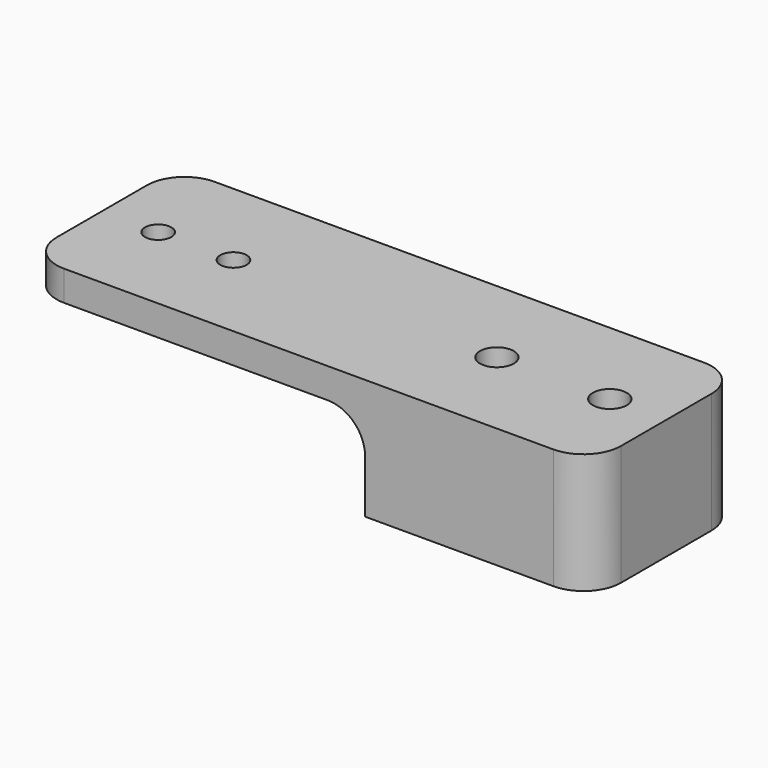
from build123d import *

# Parameters (mm, degrees)
F0_W     = 75
F0_H     = 25
F0_R     = 1.75
F1_DEPTH = 2
F2_W     = 30
F2_H     = 25
F2_R     = 2.25
F3_DEPTH = 12
F4_DEPTH = 4
F5_R     = 5


with BuildPart() as f1:
    # F0 (on Top) → F1 (new body, symmetric)
    with BuildSketch(Plane.XY):
        Rectangle(F0_W, F0_H)
        with Locations((-30, 0)):
            Circle(F0_R, mode=Mode.SUBTRACT)
        with Locations((-20, 0)):
            Circle(F0_R, mode=Mode.SUBTRACT)
    extrude(amount=F1_DEPTH, both=True)

    # F2 (on face) → F3 (join)
    with BuildSketch(Plane(origin=(0, 0, -2), x_dir=(1, 0, 0), z_dir=(0, 0, -1))):
        with Locations((22.5, 0)):
            Rectangle(F2_W, F2_H)
        with Locations((15, 0)):
            Circle(F2_R, mode=Mode.SUBTRACT)
        with Locations((30, 0)):
            Circle(F2_R, mode=Mode.SUBTRACT)
    extrude(amount=F3_DEPTH)

    # F4 (cut, through all): faces of the model
    f4_faces = [f1.faces().sort_by_distance(p)[0] for p in [
        (15, 0, -2),
        (30, 0, -2),
    ]]
    extrude(f4_faces, amount=-F4_DEPTH, mode=Mode.SUBTRACT)

    # F5
    f5_edges = [f1.edges().sort_by_distance(p)[0] for p in [
        (-37.5, 12.5, 0),
        (-37.5, -12.5, 0),
        (7.5, 0, -2),
        (37.5, -12.5, -6),
        (37.5, 12.5, -6),
    ]]
    fillet(f5_edges, radius=F5_R)


solid = f1.part
